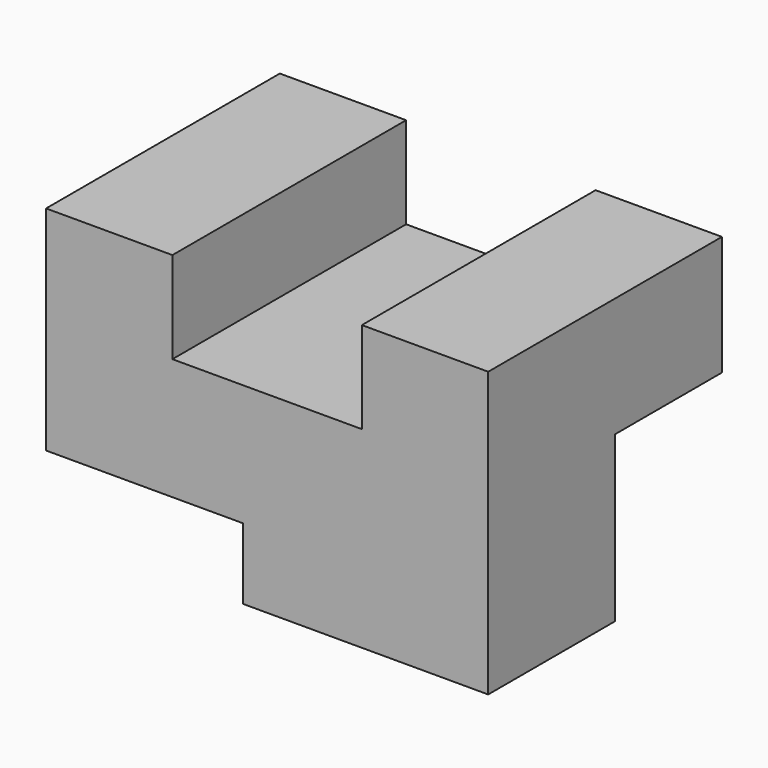
from build123d import *

# Parameters (mm, degrees)
F1_DEPTH = 37.0078
F2_W     = 24.9682
F2_H     = 8.9916
F3_DEPTH = 24.9428
F4_W     = 16.9418
F4_H     = 20.8534
F5_DEPTH = 24.003


with BuildPart() as f1:
    # F0 (on Front) → F1 (new body)
    with BuildSketch(Plane.XZ):
        Polygon((0, 35.9918), (0, 0), (56.007, 0), (56.007, 35.9918), (40.005, 35.9918), (40.005, 24.384), (16.002, 24.384), (16.002, 35.9918), align=None)
    extrude(amount=F1_DEPTH)

    # F2 (on face) → F3 (cut)
    with BuildSketch(Plane.XZ.offset(37.0078)):
        with Locations((12.4841, 4.4958)):
            Rectangle(F2_W, F2_H)
    extrude(amount=-F3_DEPTH, mode=Mode.SUBTRACT)

    # F4 (on face) → F5 (cut)
    with BuildSketch(Plane.YZ.offset(56.007)):
        with Locations((-8.4709, 10.4267)):
            Rectangle(F4_W, F4_H)
    extrude(amount=-F5_DEPTH, mode=Mode.SUBTRACT)


solid = f1.part
